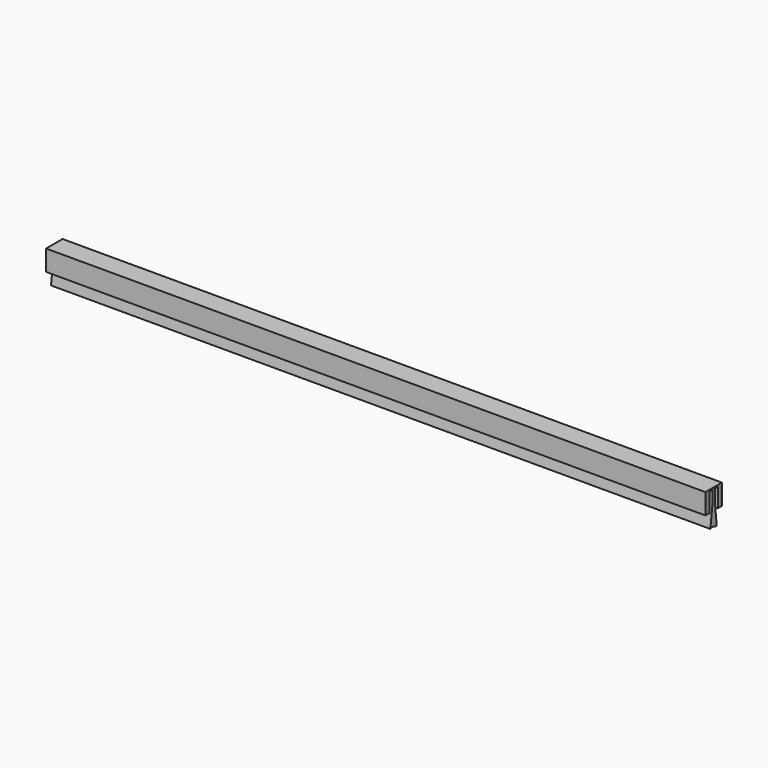
from build123d import *

# Parameters (mm, degrees)
F1_DEPTH = 609.6
F2_DEPTH = 609.6
F4_DEPTH = 609.6
F5_W     = 3.175
F5_H     = 17.4498
F6_DEPTH = 609.6


with BuildPart() as f1:
    # F0 (on Right) → F1 (new body)
    with BuildSketch(Plane.YZ):
        with BuildLine():
            Line((3.5347570665, -24.4977846742), (1.5875, -6.35))
            Line((1.5875, -6.35), (1.0795, -6.35))
            Line((1.0795, -6.35), (1.0795, 5.588))
            ThreePointArc((1.0795, 5.588), (1.0051051224, 5.7676051224), (0.8255, 5.842))
            Line((0.8255, 5.842), (-0.8255, 5.842))
            ThreePointArc((-0.8255, 5.842), (-1.0051051224, 5.7676051224), (-1.0795, 5.588))
            Line((-1.0795, 5.588), (-1.0795, -6.35))
            Line((-1.0795, -6.35), (-1.5875, -6.35))
            Line((-1.5875, -6.35), (-3.8300808519, -24.434838444))
            add(Edge.make_bspline(
                [(-3.8300808519, -24.434838444), (-2.8915608054, -24.0586638793), (-0.994458426, -23.2982734493), (1.8996103237, -25.0427717885), (3.0526992974, -24.658452378), (3.5347570665, -24.4977846742)],
                knots=[0, 0, 0, 0, 0.362961047, 0.7336809357, 1, 1, 1, 1], degree=3))
        make_face()
    extrude(amount=F1_DEPTH)


with BuildPart() as f2:
    # F0 (on Right) → F2 (new body)
    with BuildSketch(Plane.YZ):
        with BuildLine():
            ThreePointArc((1.5875, 5.588), (1.3643153673, 6.1268153673), (0.8255, 6.35))
            Line((0.8255, 6.35), (-0.8255, 6.35))
            ThreePointArc((-0.8255, 6.35), (-1.3643153673, 6.1268153673), (-1.5875, 5.588))
            Line((-1.5875, 5.588), (-1.5875, -6.35))
            Line((-1.5875, -6.35), (-1.0795, -6.35))
            Line((-1.0795, -6.35), (-1.0795, 5.588))
            ThreePointArc((-1.0795, 5.588), (-1.0051051224, 5.7676051224), (-0.8255, 5.842))
            Line((-0.8255, 5.842), (0.8255, 5.842))
            ThreePointArc((0.8255, 5.842), (1.0051051224, 5.7676051224), (1.0795, 5.588))
            Line((1.0795, 5.588), (1.0795, -6.35))
            Line((1.0795, -6.35), (1.5875, -6.35))
            Line((1.5875, -6.35), (1.5875, 5.588))
        make_face()
    extrude(amount=F2_DEPTH)


with BuildPart() as f4:
    # F3 (on Right) → F4 (new body)
    with BuildSketch(Plane.YZ):
        Polygon((7.9248, -11.0998), (9.525, -11.0998), (9.525, 7.9502), (-9.525, 7.9502), (-9.525, -11.0998), (-7.9248, -11.0998), (-7.9248, 6.35), (7.9248, 6.35), align=None)
    extrude(amount=F4_DEPTH)


with BuildPart() as f6:
    # F5 (on face) → F6 (new body)
    with BuildSketch(Plane.YZ.offset(609.6)):
        with Locations((-6.3373, -2.3749)):
            Rectangle(F5_W, F5_H)
    extrude(amount=-F6_DEPTH)


with BuildPart() as f6b:
    # F5 (on face) → F6, piece 2 (new body)
    with BuildSketch(Plane.YZ.offset(609.6)):
        with Locations((6.3373, -2.3749)):
            Rectangle(F5_W, F5_H)
    extrude(amount=-F6_DEPTH)


solid = Compound([f1.part, f2.part, f4.part, f6.part, f6b.part])
